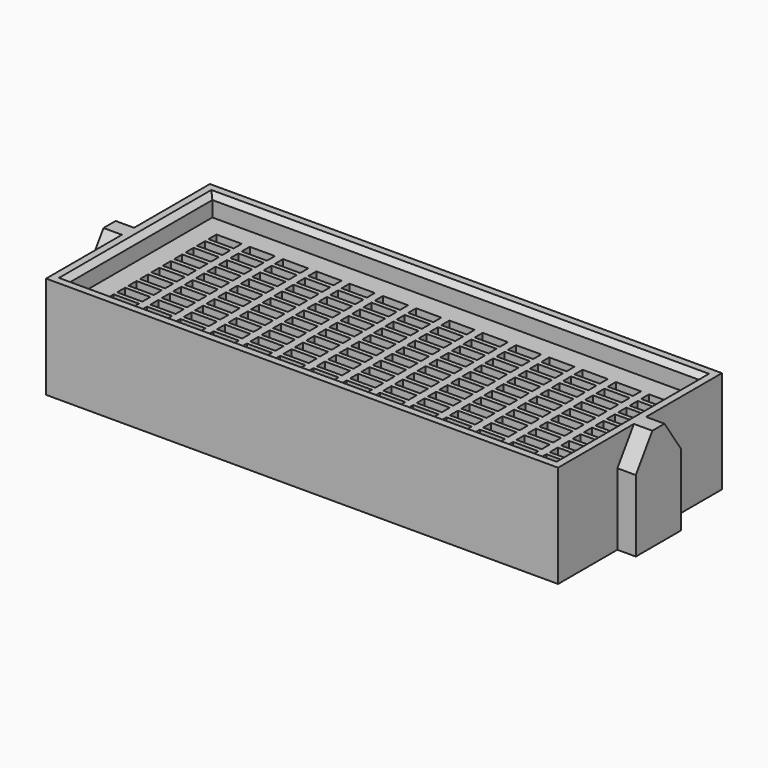
from build123d import *

# Parameters (mm, degrees)
F0_W     = 50
F0_H     = 20
F0_W_2   = 47.6
F0_H_2   = 17.6
F1_DEPTH = 10
F0_W_3   = 2.461018
F0_H_3   = 0.978245
F0_H_4   = 0.978246
F2_DEPTH = 8
F4_DEPTH = 1.8
F6_DEPTH = 1.8
F7_SIZE  = 0.5


with BuildPart() as f1:
    # F0 (on Top) → F1 (new body)
    with BuildSketch(Plane.XY):
        with Locations((-79.556419, 10)):
            Rectangle(F0_W, F0_H)
        with Locations((-79.556419, 10)):
            Rectangle(F0_W_2, F0_H_2, mode=Mode.SUBTRACT)
    extrude(amount=F1_DEPTH)

    # F0 (on Top) → F2 (join)
    with BuildSketch(Plane.XY):
        with Locations((-79.556419, 10)):
            Rectangle(F0_W_2, F0_H_2)
        with Locations((-100.068139, 3.695083)):
            Rectangle(F0_W_3, F0_H_3, mode=Mode.SUBTRACT)
        with Locations((-96.818139, 3.695083)):
            Rectangle(F0_W_3, F0_H_3, mode=Mode.SUBTRACT)
        with Locations((-93.568139, 3.695083)):
            Rectangle(F0_W_3, F0_H_3, mode=Mode.SUBTRACT)
        with Locations((-90.318139, 3.695083)):
            Rectangle(F0_W_3, F0_H_3, mode=Mode.SUBTRACT)
        with Locations((-87.068139, 3.695083)):
            Rectangle(F0_W_3, F0_H_3, mode=Mode.SUBTRACT)
        with Locations((-83.818139, 3.695083)):
            Rectangle(F0_W_3, F0_H_3, mode=Mode.SUBTRACT)
        with Locations((-80.568139, 3.695083)):
            Rectangle(F0_W_3, F0_H_3, mode=Mode.SUBTRACT)
        with Locations((-100.074558, 5.096838)):
            Rectangle(F0_W_3, F0_H_4, mode=Mode.SUBTRACT)
        with Locations((-100.080977, 6.498592)):
            Rectangle(F0_W_3, F0_H_3, mode=Mode.SUBTRACT)
        with Locations((-96.824558, 5.096838)):
            Rectangle(F0_W_3, F0_H_4, mode=Mode.SUBTRACT)
        with Locations((-93.574558, 5.096838)):
            Rectangle(F0_W_3, F0_H_4, mode=Mode.SUBTRACT)
        with Locations((-96.830977, 6.498592)):
            Rectangle(F0_W_3, F0_H_3, mode=Mode.SUBTRACT)
        with Locations((-93.580977, 6.498592)):
            Rectangle(F0_W_3, F0_H_3, mode=Mode.SUBTRACT)
        with Locations((-100.087396, 7.900347)):
            Rectangle(F0_W_3, F0_H_3, mode=Mode.SUBTRACT)
        with Locations((-100.093815, 9.302103)):
            Rectangle(F0_W_3, F0_H_3, mode=Mode.SUBTRACT)
        with Locations((-96.837396, 7.900347)):
            Rectangle(F0_W_3, F0_H_3, mode=Mode.SUBTRACT)
        with Locations((-93.587396, 7.900347)):
            Rectangle(F0_W_3, F0_H_3, mode=Mode.SUBTRACT)
        with Locations((-96.843815, 9.302103)):
            Rectangle(F0_W_3, F0_H_3, mode=Mode.SUBTRACT)
        with Locations((-93.593815, 9.302103)):
            Rectangle(F0_W_3, F0_H_3, mode=Mode.SUBTRACT)
        with Locations((-90.324558, 5.096838)):
            Rectangle(F0_W_3, F0_H_4, mode=Mode.SUBTRACT)
        with Locations((-87.074558, 5.096838)):
            Rectangle(F0_W_3, F0_H_4, mode=Mode.SUBTRACT)
        with Locations((-90.330977, 6.498592)):
            Rectangle(F0_W_3, F0_H_3, mode=Mode.SUBTRACT)
        with Locations((-87.080977, 6.498592)):
            Rectangle(F0_W_3, F0_H_3, mode=Mode.SUBTRACT)
        with Locations((-83.824558, 5.096838)):
            Rectangle(F0_W_3, F0_H_4, mode=Mode.SUBTRACT)
        with Locations((-80.574558, 5.096838)):
            Rectangle(F0_W_3, F0_H_4, mode=Mode.SUBTRACT)
        with Locations((-83.830977, 6.498592)):
            Rectangle(F0_W_3, F0_H_3, mode=Mode.SUBTRACT)
        with Locations((-80.580977, 6.498592)):
            Rectangle(F0_W_3, F0_H_3, mode=Mode.SUBTRACT)
        with Locations((-90.337396, 7.900347)):
            Rectangle(F0_W_3, F0_H_3, mode=Mode.SUBTRACT)
        with Locations((-87.087396, 7.900347)):
            Rectangle(F0_W_3, F0_H_3, mode=Mode.SUBTRACT)
        with Locations((-90.343815, 9.302103)):
            Rectangle(F0_W_3, F0_H_3, mode=Mode.SUBTRACT)
        with Locations((-87.093815, 9.302103)):
            Rectangle(F0_W_3, F0_H_3, mode=Mode.SUBTRACT)
        with Locations((-83.837396, 7.900347)):
            Rectangle(F0_W_3, F0_H_3, mode=Mode.SUBTRACT)
        with Locations((-80.587396, 7.900347)):
            Rectangle(F0_W_3, F0_H_3, mode=Mode.SUBTRACT)
        with Locations((-83.843815, 9.302103)):
            Rectangle(F0_W_3, F0_H_3, mode=Mode.SUBTRACT)
        with Locations((-80.593815, 9.302103)):
            Rectangle(F0_W_3, F0_H_3, mode=Mode.SUBTRACT)
        with Locations((-77.318139, 3.695083)):
            Rectangle(F0_W_3, F0_H_3, mode=Mode.SUBTRACT)
        with Locations((-74.068139, 3.695083)):
            Rectangle(F0_W_3, F0_H_3, mode=Mode.SUBTRACT)
        with Locations((-70.818139, 3.695083)):
            Rectangle(F0_W_3, F0_H_3, mode=Mode.SUBTRACT)
        with Locations((-67.568139, 3.695083)):
            Rectangle(F0_W_3, F0_H_3, mode=Mode.SUBTRACT)
        with Locations((-64.318139, 3.695083)):
            Rectangle(F0_W_3, F0_H_3, mode=Mode.SUBTRACT)
        with Locations((-61.068139, 3.695083)):
            Rectangle(F0_W_3, F0_H_3, mode=Mode.SUBTRACT)
        with Locations((-57.818139, 3.695083)):
            Rectangle(F0_W_3, F0_H_3, mode=Mode.SUBTRACT)
        with Locations((-77.324558, 5.096838)):
            Rectangle(F0_W_3, F0_H_4, mode=Mode.SUBTRACT)
        with Locations((-74.074558, 5.096838)):
            Rectangle(F0_W_3, F0_H_4, mode=Mode.SUBTRACT)
        with Locations((-77.330977, 6.498592)):
            Rectangle(F0_W_3, F0_H_3, mode=Mode.SUBTRACT)
        with Locations((-74.080977, 6.498592)):
            Rectangle(F0_W_3, F0_H_3, mode=Mode.SUBTRACT)
        with Locations((-70.824558, 5.096838)):
            Rectangle(F0_W_3, F0_H_4, mode=Mode.SUBTRACT)
        with Locations((-67.574558, 5.096838)):
            Rectangle(F0_W_3, F0_H_4, mode=Mode.SUBTRACT)
        with Locations((-70.830977, 6.498592)):
            Rectangle(F0_W_3, F0_H_3, mode=Mode.SUBTRACT)
        with Locations((-67.580977, 6.498592)):
            Rectangle(F0_W_3, F0_H_3, mode=Mode.SUBTRACT)
        with Locations((-77.337396, 7.900347)):
            Rectangle(F0_W_3, F0_H_3, mode=Mode.SUBTRACT)
        with Locations((-74.087396, 7.900347)):
            Rectangle(F0_W_3, F0_H_3, mode=Mode.SUBTRACT)
        with Locations((-77.343815, 9.302103)):
            Rectangle(F0_W_3, F0_H_3, mode=Mode.SUBTRACT)
        with Locations((-74.093815, 9.302103)):
            Rectangle(F0_W_3, F0_H_3, mode=Mode.SUBTRACT)
        with Locations((-70.837396, 7.900347)):
            Rectangle(F0_W_3, F0_H_3, mode=Mode.SUBTRACT)
        with Locations((-67.587396, 7.900347)):
            Rectangle(F0_W_3, F0_H_3, mode=Mode.SUBTRACT)
        with Locations((-70.843815, 9.302103)):
            Rectangle(F0_W_3, F0_H_3, mode=Mode.SUBTRACT)
        with Locations((-67.593815, 9.302103)):
            Rectangle(F0_W_3, F0_H_3, mode=Mode.SUBTRACT)
        with Locations((-64.324558, 5.096838)):
            Rectangle(F0_W_3, F0_H_4, mode=Mode.SUBTRACT)
        with Locations((-61.074558, 5.096838)):
            Rectangle(F0_W_3, F0_H_4, mode=Mode.SUBTRACT)
        with Locations((-64.330977, 6.498592)):
            Rectangle(F0_W_3, F0_H_3, mode=Mode.SUBTRACT)
        with Locations((-61.080977, 6.498592)):
            Rectangle(F0_W_3, F0_H_3, mode=Mode.SUBTRACT)
        with Locations((-57.824558, 5.096838)):
            Rectangle(F0_W_3, F0_H_4, mode=Mode.SUBTRACT)
        with Locations((-57.830977, 6.498592)):
            Rectangle(F0_W_3, F0_H_3, mode=Mode.SUBTRACT)
        with Locations((-64.337396, 7.900347)):
            Rectangle(F0_W_3, F0_H_3, mode=Mode.SUBTRACT)
        with Locations((-61.087396, 7.900347)):
            Rectangle(F0_W_3, F0_H_3, mode=Mode.SUBTRACT)
        with Locations((-64.343815, 9.302103)):
            Rectangle(F0_W_3, F0_H_3, mode=Mode.SUBTRACT)
        with Locations((-61.093815, 9.302103)):
            Rectangle(F0_W_3, F0_H_3, mode=Mode.SUBTRACT)
        with Locations((-57.837396, 7.900347)):
            Rectangle(F0_W_3, F0_H_3, mode=Mode.SUBTRACT)
        with Locations((-57.843815, 9.302103)):
            Rectangle(F0_W_3, F0_H_3, mode=Mode.SUBTRACT)
        with Locations((-100.100234, 10.703857)):
            Rectangle(F0_W_3, F0_H_3, mode=Mode.SUBTRACT)
        with Locations((-100.106653, 12.105612)):
            Rectangle(F0_W_3, F0_H_3, mode=Mode.SUBTRACT)
        with Locations((-96.850234, 10.703857)):
            Rectangle(F0_W_3, F0_H_3, mode=Mode.SUBTRACT)
        with Locations((-93.600234, 10.703857)):
            Rectangle(F0_W_3, F0_H_3, mode=Mode.SUBTRACT)
        with Locations((-96.856653, 12.105612)):
            Rectangle(F0_W_3, F0_H_3, mode=Mode.SUBTRACT)
        with Locations((-93.606653, 12.105612)):
            Rectangle(F0_W_3, F0_H_3, mode=Mode.SUBTRACT)
        with Locations((-100.113072, 13.507368)):
            Rectangle(F0_W_3, F0_H_3, mode=Mode.SUBTRACT)
        with Locations((-100.119491, 14.909122)):
            Rectangle(F0_W_3, F0_H_3, mode=Mode.SUBTRACT)
        with Locations((-96.863072, 13.507368)):
            Rectangle(F0_W_3, F0_H_3, mode=Mode.SUBTRACT)
        with Locations((-93.613072, 13.507368)):
            Rectangle(F0_W_3, F0_H_3, mode=Mode.SUBTRACT)
        with Locations((-96.869491, 14.909122)):
            Rectangle(F0_W_3, F0_H_3, mode=Mode.SUBTRACT)
        with Locations((-93.619491, 14.909122)):
            Rectangle(F0_W_3, F0_H_3, mode=Mode.SUBTRACT)
        with Locations((-90.350234, 10.703857)):
            Rectangle(F0_W_3, F0_H_3, mode=Mode.SUBTRACT)
        with Locations((-87.100234, 10.703857)):
            Rectangle(F0_W_3, F0_H_3, mode=Mode.SUBTRACT)
        with Locations((-90.356653, 12.105612)):
            Rectangle(F0_W_3, F0_H_3, mode=Mode.SUBTRACT)
        with Locations((-87.106653, 12.105612)):
            Rectangle(F0_W_3, F0_H_3, mode=Mode.SUBTRACT)
        with Locations((-83.850234, 10.703857)):
            Rectangle(F0_W_3, F0_H_3, mode=Mode.SUBTRACT)
        with Locations((-80.600234, 10.703857)):
            Rectangle(F0_W_3, F0_H_3, mode=Mode.SUBTRACT)
        with Locations((-83.856653, 12.105612)):
            Rectangle(F0_W_3, F0_H_3, mode=Mode.SUBTRACT)
        with Locations((-80.606653, 12.105612)):
            Rectangle(F0_W_3, F0_H_3, mode=Mode.SUBTRACT)
        with Locations((-90.363072, 13.507368)):
            Rectangle(F0_W_3, F0_H_3, mode=Mode.SUBTRACT)
        with Locations((-87.113072, 13.507368)):
            Rectangle(F0_W_3, F0_H_3, mode=Mode.SUBTRACT)
        with Locations((-90.369491, 14.909122)):
            Rectangle(F0_W_3, F0_H_3, mode=Mode.SUBTRACT)
        with Locations((-87.119491, 14.909122)):
            Rectangle(F0_W_3, F0_H_3, mode=Mode.SUBTRACT)
        with Locations((-83.863072, 13.507368)):
            Rectangle(F0_W_3, F0_H_3, mode=Mode.SUBTRACT)
        with Locations((-80.613072, 13.507368)):
            Rectangle(F0_W_3, F0_H_3, mode=Mode.SUBTRACT)
        with Locations((-83.869491, 14.909122)):
            Rectangle(F0_W_3, F0_H_3, mode=Mode.SUBTRACT)
        with Locations((-80.619491, 14.909122)):
            Rectangle(F0_W_3, F0_H_3, mode=Mode.SUBTRACT)
        with Locations((-100.12591, 16.310878)):
            Rectangle(F0_W_3, F0_H_3, mode=Mode.SUBTRACT)
        with Locations((-96.87591, 16.310878)):
            Rectangle(F0_W_3, F0_H_3, mode=Mode.SUBTRACT)
        with Locations((-93.62591, 16.310878)):
            Rectangle(F0_W_3, F0_H_3, mode=Mode.SUBTRACT)
        with Locations((-90.37591, 16.310878)):
            Rectangle(F0_W_3, F0_H_3, mode=Mode.SUBTRACT)
        with Locations((-87.12591, 16.310878)):
            Rectangle(F0_W_3, F0_H_3, mode=Mode.SUBTRACT)
        with Locations((-83.87591, 16.310878)):
            Rectangle(F0_W_3, F0_H_3, mode=Mode.SUBTRACT)
        with Locations((-80.62591, 16.310878)):
            Rectangle(F0_W_3, F0_H_3, mode=Mode.SUBTRACT)
        with Locations((-77.350234, 10.703857)):
            Rectangle(F0_W_3, F0_H_3, mode=Mode.SUBTRACT)
        with Locations((-74.100234, 10.703857)):
            Rectangle(F0_W_3, F0_H_3, mode=Mode.SUBTRACT)
        with Locations((-77.356653, 12.105612)):
            Rectangle(F0_W_3, F0_H_3, mode=Mode.SUBTRACT)
        with Locations((-74.106653, 12.105612)):
            Rectangle(F0_W_3, F0_H_3, mode=Mode.SUBTRACT)
        with Locations((-70.850234, 10.703857)):
            Rectangle(F0_W_3, F0_H_3, mode=Mode.SUBTRACT)
        with Locations((-67.600234, 10.703857)):
            Rectangle(F0_W_3, F0_H_3, mode=Mode.SUBTRACT)
        with Locations((-70.856653, 12.105612)):
            Rectangle(F0_W_3, F0_H_3, mode=Mode.SUBTRACT)
        with Locations((-67.606653, 12.105612)):
            Rectangle(F0_W_3, F0_H_3, mode=Mode.SUBTRACT)
        with Locations((-77.363072, 13.507368)):
            Rectangle(F0_W_3, F0_H_3, mode=Mode.SUBTRACT)
        with Locations((-74.113072, 13.507368)):
            Rectangle(F0_W_3, F0_H_3, mode=Mode.SUBTRACT)
        with Locations((-77.369491, 14.909122)):
            Rectangle(F0_W_3, F0_H_3, mode=Mode.SUBTRACT)
        with Locations((-74.119491, 14.909122)):
            Rectangle(F0_W_3, F0_H_3, mode=Mode.SUBTRACT)
        with Locations((-70.863072, 13.507368)):
            Rectangle(F0_W_3, F0_H_3, mode=Mode.SUBTRACT)
        with Locations((-67.613072, 13.507368)):
            Rectangle(F0_W_3, F0_H_3, mode=Mode.SUBTRACT)
        with Locations((-70.869491, 14.909122)):
            Rectangle(F0_W_3, F0_H_3, mode=Mode.SUBTRACT)
        with Locations((-67.619491, 14.909122)):
            Rectangle(F0_W_3, F0_H_3, mode=Mode.SUBTRACT)
        with Locations((-64.350234, 10.703857)):
            Rectangle(F0_W_3, F0_H_3, mode=Mode.SUBTRACT)
        with Locations((-61.100234, 10.703857)):
            Rectangle(F0_W_3, F0_H_3, mode=Mode.SUBTRACT)
        with Locations((-64.356653, 12.105612)):
            Rectangle(F0_W_3, F0_H_3, mode=Mode.SUBTRACT)
        with Locations((-61.106653, 12.105612)):
            Rectangle(F0_W_3, F0_H_3, mode=Mode.SUBTRACT)
        with Locations((-57.850234, 10.703857)):
            Rectangle(F0_W_3, F0_H_3, mode=Mode.SUBTRACT)
        with Locations((-57.856653, 12.105612)):
            Rectangle(F0_W_3, F0_H_3, mode=Mode.SUBTRACT)
        with Locations((-64.363072, 13.507368)):
            Rectangle(F0_W_3, F0_H_3, mode=Mode.SUBTRACT)
        with Locations((-61.113072, 13.507368)):
            Rectangle(F0_W_3, F0_H_3, mode=Mode.SUBTRACT)
        with Locations((-64.369491, 14.909122)):
            Rectangle(F0_W_3, F0_H_3, mode=Mode.SUBTRACT)
        with Locations((-61.119491, 14.909122)):
            Rectangle(F0_W_3, F0_H_3, mode=Mode.SUBTRACT)
        with Locations((-57.863072, 13.507368)):
            Rectangle(F0_W_3, F0_H_3, mode=Mode.SUBTRACT)
        with Locations((-57.869491, 14.909122)):
            Rectangle(F0_W_3, F0_H_3, mode=Mode.SUBTRACT)
        with Locations((-77.37591, 16.310878)):
            Rectangle(F0_W_3, F0_H_3, mode=Mode.SUBTRACT)
        with Locations((-74.12591, 16.310878)):
            Rectangle(F0_W_3, F0_H_3, mode=Mode.SUBTRACT)
        with Locations((-70.87591, 16.310878)):
            Rectangle(F0_W_3, F0_H_3, mode=Mode.SUBTRACT)
        with Locations((-67.62591, 16.310878)):
            Rectangle(F0_W_3, F0_H_3, mode=Mode.SUBTRACT)
        with Locations((-64.37591, 16.310878)):
            Rectangle(F0_W_3, F0_H_3, mode=Mode.SUBTRACT)
        with Locations((-61.12591, 16.310878)):
            Rectangle(F0_W_3, F0_H_3, mode=Mode.SUBTRACT)
        with Locations((-57.87591, 16.310878)):
            Rectangle(F0_W_3, F0_H_3, mode=Mode.SUBTRACT)
    extrude(amount=F2_DEPTH)

    # F3 (on face) → F4 (join)
    with BuildSketch(Plane(origin=(-104.556419, 0, 0), x_dir=(0, -1, 0), z_dir=(-1, 0, 0))):
        Polygon((-12.76127, 0), (-7.23873, 0), (-7.23873, 7.008197), (-9.258079, 10), (-10.741921, 10), (-12.76127, 7.008197), align=None)
        Polygon((-12.76127, 0), (-7.23873, 0), (-7.23873, 7.008197), (-9.258079, 10), (-10.741921, 10), (-12.76127, 7.008197), align=None)
    extrude(amount=F4_DEPTH)

    # F5 (on face) → F6 (join)
    with BuildSketch(Plane.YZ.offset(-54.556419)):
        Polygon((12.76127, 7.008197), (10.741921, 10), (9.258079, 10), (7.23873, 7.008197), (7.23873, 0), (12.76127, 0), align=None)
    extrude(amount=F6_DEPTH)

    # F7
    f7_edges = [f1.edges().sort_by_distance(p)[0] for p in [
        (-79.556419, 1.2, 10),
        (-103.356419, 10, 10),
        (-79.556419, 18.8, 10),
        (-55.756419, 10, 10),
    ]]
    chamfer(f7_edges, length=F7_SIZE)


solid = f1.part
